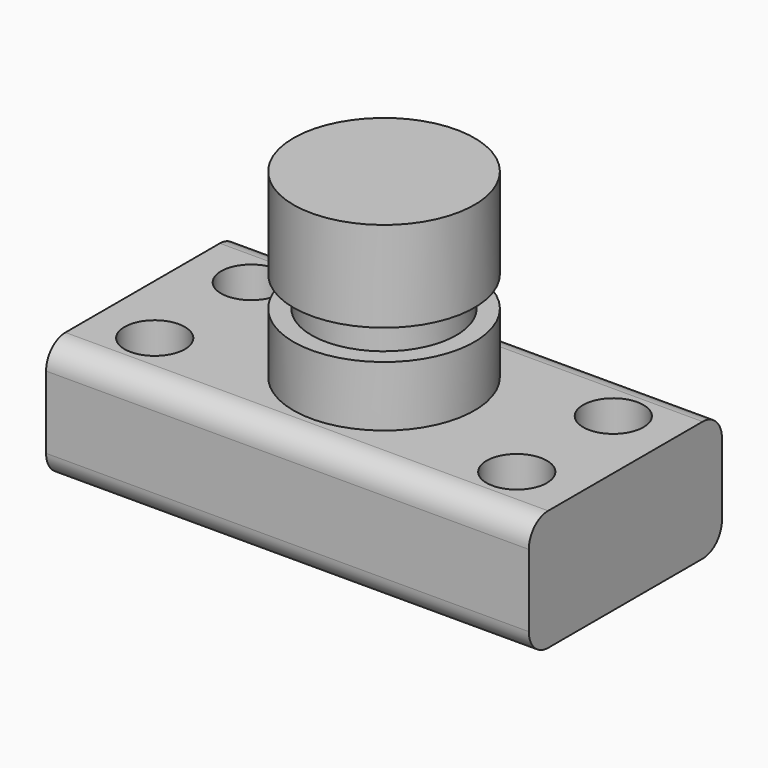
from build123d import *

# Parameters (mm, degrees)
F0_W     = 101.6
F0_H     = 50.8
F1_DEPTH = 25.4
F2_R     = 6.35
F3_DEPTH = 25.401
F4_W     = 19.05
F4_H     = 38.1
F6_R     = 5.08
F7_W     = 7.721651
F7_H     = 6.35


with BuildPart() as f1:
    # F0 (on Top) → F1 (new body)
    with BuildSketch(Plane.XY):
        Rectangle(F0_W, F0_H)
    extrude(amount=F1_DEPTH)

    # F2 (on face) → F3 (cut, through all)
    with BuildSketch(Plane.XY.offset(25.4)):
        with Locations((-38.1, 12.7)):
            Circle(F2_R)
        with Locations((38.1, 12.7)):
            Circle(F2_R)
        with Locations((-38.1, -12.7)):
            Circle(F2_R)
        with Locations((38.1, -12.7)):
            Circle(F2_R)
    extrude(amount=-F3_DEPTH, mode=Mode.SUBTRACT)

    # F4 (on Front) → F5 (revolve)
    with BuildSketch(Plane.XZ):
        with Locations((-9.525, 44.45)):
            Rectangle(F4_W, F4_H)
    revolve(axis=Axis((0, 0, 44.45), (0, 0, 1)))

    # F6
    f6_edges = [f1.edges().sort_by_distance(p)[0] for p in [
        (0, -25.4, 25.4),
        (0, -25.4, 0),
        (0, 25.4, 25.4),
        (0, 25.4, 0),
    ]]
    fillet(f6_edges, radius=F6_R)

    # F7 (on Front) → F8 (revolve, cut)
    with BuildSketch(Plane.XZ):
        with Locations((-19.100825, 41.275)):
            Rectangle(F7_W, F7_H)
    revolve(axis=Axis((0, 0, 63.5), (0, 0, -1)), mode=Mode.SUBTRACT)


solid = f1.part
